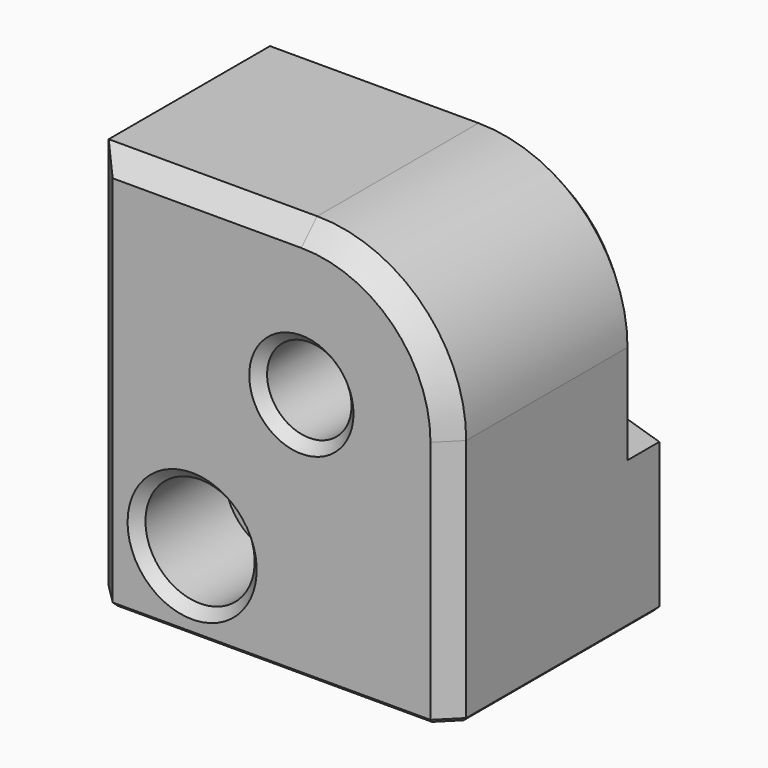
from build123d import *

# Parameters (mm, degrees)
SKETCH087_W      = 36
SKETCH087_H      = 40
SKETCH087_R      = 4.25
PAD039_DEPTH     = 24.3
FILLET015_R      = 15
POCKET045_DEPTH  = 6
CHAMFER040_SIZE  = 1
SKETCH089_W      = 16
SKETCH089_H      = 15
PAD040_DEPTH     = 6
CHAMFER041_SIZE2 = 4
CHAMFER041_SIZE  = 12
SKETCH090_R      = 2.75
POCKET046_DEPTH  = 40
SKETCH091_R      = 5.5
POCKET047_DEPTH  = 11
CHAMFER042_SIZE  = 1
CHAMFER043_SIZE  = 2
CHAMFER044_SIZE  = 0.4


with BuildPart() as obj1:
    # Sketch087 → Pad039 (new body)
    with BuildSketch(Plane.XZ):
        with Locations((-3, -5)):
            Rectangle(SKETCH087_W, SKETCH087_H)
        Circle(SKETCH087_R, mode=Mode.SUBTRACT)
    extrude(amount=-PAD039_DEPTH)

    # Fillet015
    fillet015_edges = [obj1.edges().sort_by_distance(p)[0] for p in [
        (15, 12.15, 15),
    ]]
    fillet(fillet015_edges, radius=FILLET015_R)

    # Sketch088 (on Face2 of Fillet015) → Pocket045 (cut)
    with BuildSketch(Plane.XZ):
        Polygon((7.621024, 0), (3.810512, 6.6), (-3.810512, 6.6), (-7.621024, 0), (-3.810512, -6.6), (3.810512, -6.6), align=None)
    extrude(amount=-POCKET045_DEPTH, mode=Mode.SUBTRACT)

    # Chamfer040
    chamfer040_edges = [obj1.edges().sort_by_distance(p)[0] for p in [
        (-4.25, 6, 0),
    ]]
    chamfer(chamfer040_edges, length=CHAMFER040_SIZE)

    # Sketch089 (on Face16 of Chamfer040) → Pad040 (join)
    with BuildSketch(Plane.XZ):
        with Locations((7, -17.5)):
            Rectangle(SKETCH089_W, SKETCH089_H)
    extrude(amount=PAD040_DEPTH)

    # Chamfer041
    chamfer041_edges = [obj1.edges().sort_by_distance(p)[0] for p in [
        (15, -6, -17.5),
    ]]
    chamfer041_side = obj1.faces().sort_by_distance((7, -6, -17.5))[0]
    chamfer(chamfer041_edges, length=CHAMFER041_SIZE, length2=CHAMFER041_SIZE2, reference=chamfer041_side)

    # Sketch090 (on Face9 of Chamfer041) → Pocket046 (cut)
    with BuildSketch(Plane(origin=(0, 24.3, 0), x_dir=(-1, 0, 0), z_dir=(0, 1, 0))):
        with Locations((11, -17)):
            Circle(SKETCH090_R)
    extrude(amount=-POCKET046_DEPTH, mode=Mode.SUBTRACT)

    # Sketch091 (on Face9 of Pocket046) → Pocket047 (cut)
    with BuildSketch(Plane(origin=(0, 24.3, 0), x_dir=(-1, 0, 0), z_dir=(0, 1, 0))):
        with Locations((11, -17)):
            Circle(SKETCH091_R)
    extrude(amount=-POCKET047_DEPTH, mode=Mode.SUBTRACT)

    # Chamfer042
    chamfer042_edges = [obj1.edges().sort_by_distance(p)[0] for p in [
        (-5.5, 24.3, -17),
        (-4.25, 24.3, 0),
        (-8.25, 13.3, -17),
    ]]
    chamfer(chamfer042_edges, length=CHAMFER042_SIZE)

    # Chamfer043
    chamfer043_edges = [obj1.edges().sort_by_distance(p)[0] for p in [
        (-21, 0, -5),
        (-21, 24.3, -5),
        (-10.5, 24.3, 15),
        (15, 0, -5),
    ]]
    chamfer(chamfer043_edges, length=CHAMFER043_SIZE)

    # Chamfer044
    chamfer044_edges = [obj1.edges().sort_by_distance(p)[0] for p in [
        (15, 10.15, -25),
        (14, 23.3, -25),
        (9, -4, -25),
        (-3, 24.3, -25),
        (1, -6, -25),
        (-20, 23.3, -25),
        (-1, -3, -25),
        (-21, 12.15, -25),
        (-10, 0, -25),
        (-20, 1, -25),
    ]]
    chamfer(chamfer044_edges, length=CHAMFER044_SIZE)


with BuildPart() as obj1_1:
    # Body024 placement: moved
    add(obj1.part.moved(Location((0, -70, 0))))


with BuildPart() as part_mirroring004:
    # Part__Mirroring004: instance of obj1
    add(obj1_1.part.mirror(Plane(origin=(0, 0, 0), x_dir=(1, 0, 0), z_dir=(0, 1, 0))))


solid = part_mirroring004.part
